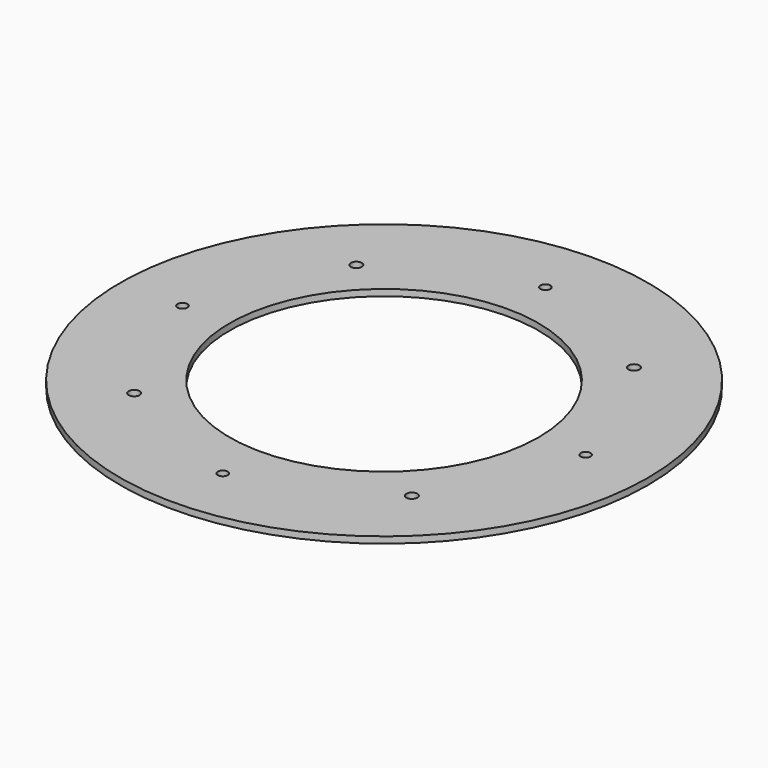
from build123d import *

# Parameters (mm, degrees)
F0_R     = 65.0875
F0_R_2   = 1.35255
F0_R_3   = 1.2192
F0_R_4   = 38.1
F1_DEPTH = 1.5875


with BuildPart() as f1:
    # F0 (on Top) → F1 (new body)
    with BuildSketch(Plane.XY):
        Circle(F0_R)
        with Locations((-34.237226, -34.237226)):
            Circle(F0_R_2, mode=Mode.SUBTRACT)
        with Locations((0, -49.714698)):
            Circle(F0_R_3, mode=Mode.SUBTRACT)
        with Locations((34.237226, -34.237226)):
            Circle(F0_R_2, mode=Mode.SUBTRACT)
        with Locations((-49.714698, 0)):
            Circle(F0_R_3, mode=Mode.SUBTRACT)
        with Locations((-34.237226, 34.237226)):
            Circle(F0_R_2, mode=Mode.SUBTRACT)
        Circle(F0_R_4, mode=Mode.SUBTRACT)
        with Locations((49.714698, 0)):
            Circle(F0_R_3, mode=Mode.SUBTRACT)
        with Locations((0, 49.714698)):
            Circle(F0_R_3, mode=Mode.SUBTRACT)
        with Locations((34.237226, 34.237226)):
            Circle(F0_R_2, mode=Mode.SUBTRACT)
    extrude(amount=F1_DEPTH)


solid = f1.part
